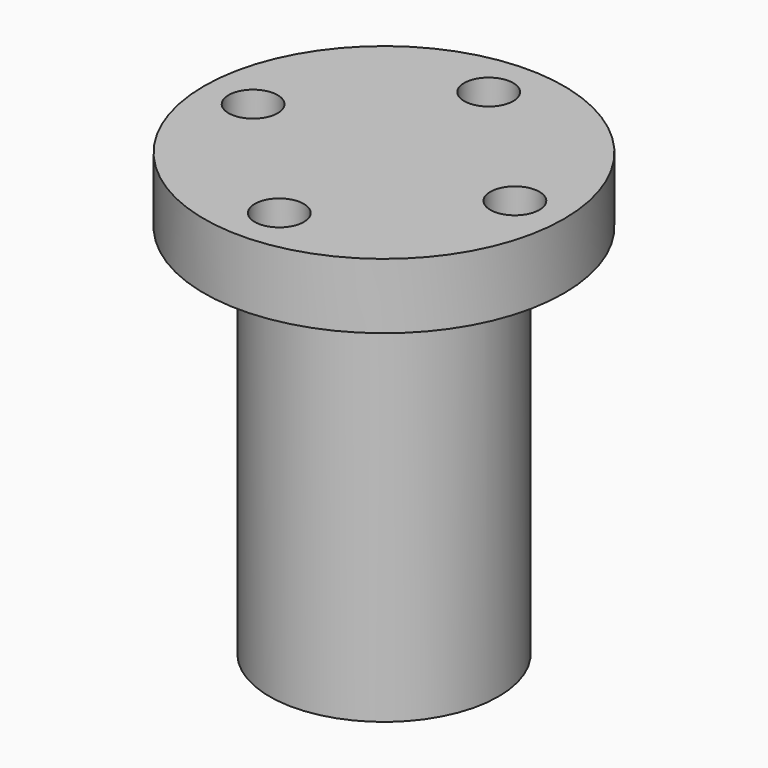
from build123d import *

# Parameters (mm, degrees)
CYLINDER004_R     = 7
CYLINDER004_DEPTH = 23
CYLINDER006_R     = 1.5
CYLINDER006_DEPTH = 20
ARRAY001009_COUNT = 4
CYLINDER005_R     = 11
CYLINDER005_DEPTH = 4


with BuildPart() as backlash_nut_cylinder:
    # Cylinder004 → Cylinder004 (new body)
    with BuildSketch(Plane.XY.offset(-23)):
        Circle(CYLINDER004_R)
    extrude(amount=CYLINDER004_DEPTH)


with BuildPart() as array001009:
    # Cylinder006 → Cylinder006 (new body)
    with BuildSketch(Plane(origin=(0, -8, -5), x_dir=(1, 0, 0), z_dir=(0, 0, 1))):
        Circle(CYLINDER006_R)
    extrude(amount=CYLINDER006_DEPTH)

    # Array001009: Array001009 ×4 about axis
    array001009_axis = Axis((0, 0, 0), (0, 0, 1))


with BuildPart() as array001009_1:
    add(array001009.part)
    for i in range(1, ARRAY001009_COUNT):
        add(array001009.part.rotate(array001009_axis, i * 360 / ARRAY001009_COUNT))


with BuildPart() as backlash_nut_union:
    # Cylinder005 → Cylinder005 (new body)
    with BuildSketch(Plane.XY):
        Circle(CYLINDER005_R)
    extrude(amount=CYLINDER005_DEPTH)

    # Cut008: cut Array001009
    add(array001009_1.part, mode=Mode.SUBTRACT)

    # Fusion011: union backlash nut cylinder
    add(backlash_nut_cylinder.part)


with BuildPart() as backlash_nut_union_1:
    # Fusion011 placement: moved
    add(backlash_nut_union.part.moved(Location((0, 0, -83))))


solid = backlash_nut_union_1.part
